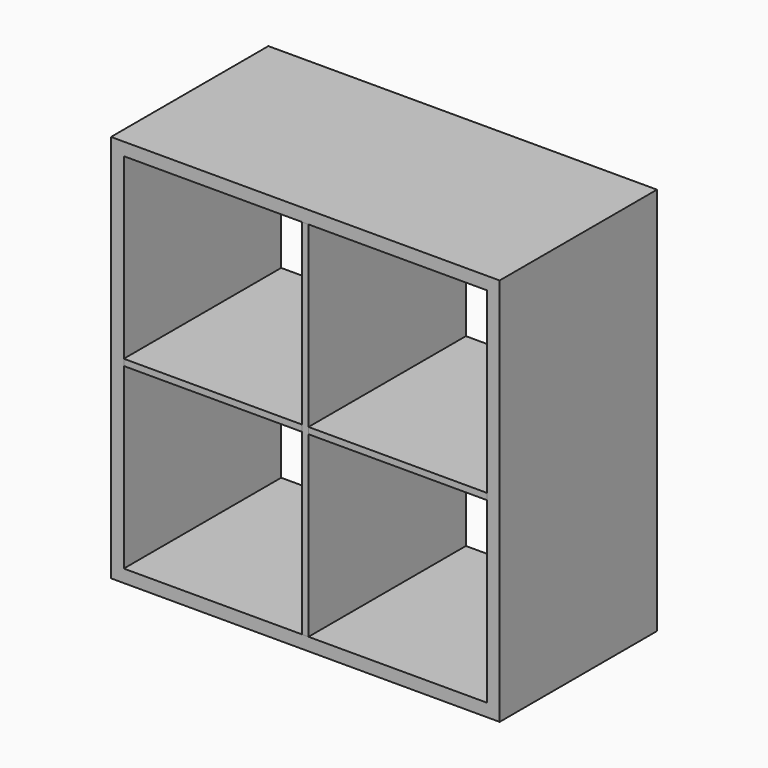
from build123d import *

# Parameters (mm, degrees)
F0_W     = 771.525
F0_H     = 771.525
F1_DEPTH = 390.525
F2_W     = 720.725
F2_H     = 12.7
F3_DEPTH = 390.525
F4_W     = 12.7
F4_H     = 720.725
F5_DEPTH = 390.525


with BuildPart() as f1:
    # F0 (on Front) → F1 (new body)
    with BuildSketch(Plane.XZ):
        Rectangle(F0_W, F0_H)
        Polygon((360.3625, -6.35), (360.3625, -360.3625), (6.35, -360.3625), (-6.35, -360.3625), (-360.3625, -360.3625), (-360.3625, -6.35), (-360.3625, 6.35), (-360.3625, 360.3625), (-6.35, 360.3625), (6.35, 360.3625), (360.3625, 360.3625), (360.3625, 6.35), align=None, mode=Mode.SUBTRACT)
    extrude(amount=F1_DEPTH)


with BuildPart() as f3:
    # F2 (on face) → F3 (new body)
    with BuildSketch(Plane.XZ.offset(390.525)):
        Rectangle(F2_W, F2_H)
    extrude(amount=-F3_DEPTH)


with BuildPart() as f5:
    # F4 (on face) → F5 (new body)
    with BuildSketch(Plane.XZ.offset(390.525)):
        Rectangle(F4_W, F4_H)
    extrude(amount=-F5_DEPTH)


solid = Compound([f1.part, f3.part, f5.part])
